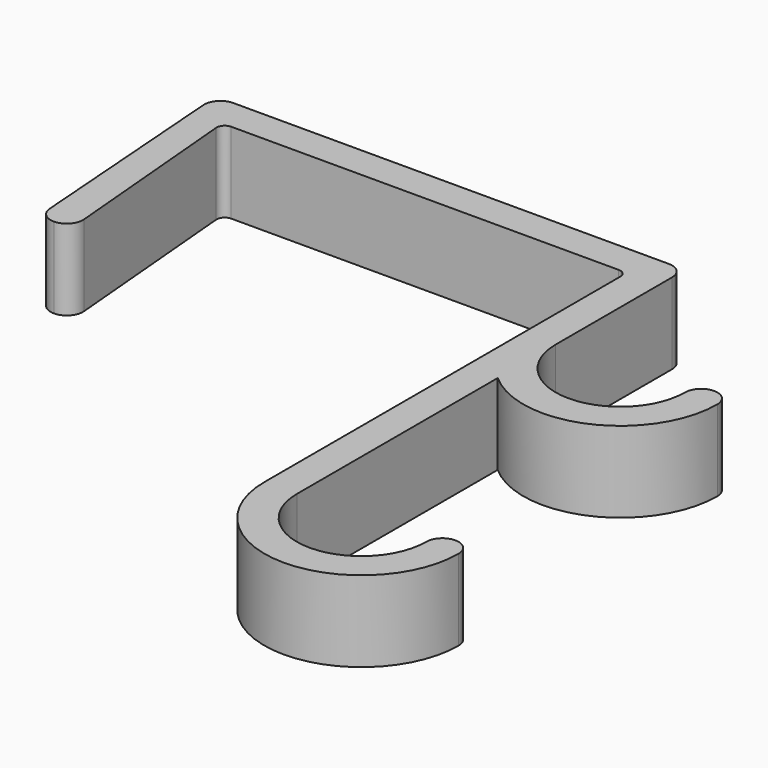
from build123d import *

# Parameters (mm, degrees)
F1_DEPTH = 15.875


with BuildPart() as f1:
    # F0 (on Top) → F1 (new body)
    with BuildSketch(Plane.XY):
        with BuildLine():
            Line((88.9, 0), (3.420675, 0))
            ThreePointArc((3.420675, 0), (1.093601, -1.015058), (0.254473, -3.411196))
            Line((0.254473, -3.411196), (3.354198, -44.962916))
            ThreePointArc((3.354198, -44.962916), (4.360458, -47.053794), (6.5204, -47.901719))
            ThreePointArc((6.5204, -47.901719), (8.861255, -46.871718), (9.683318, -44.45))
            Line((9.683318, -44.45), (6.500993, -8.07586))
            ThreePointArc((6.500993, -8.07586), (6.912024, -6.865001), (8.082452, -6.35))
            Line((8.082452, -6.35), (84.1375, -6.35))
            ThreePointArc((84.1375, -6.35), (85.260032, -6.814968), (85.725, -7.9375))
            Line((85.725, -7.9375), (85.725, -95.25))
            ThreePointArc((85.725, -95.25), (104.775, -114.3), (123.825, -95.25))
            ThreePointArc((123.825, -95.25), (120.65, -92.075), (117.475, -95.25))
            ThreePointArc((117.475, -95.25), (104.775, -107.95), (92.075, -95.25))
            Line((92.075, -95.25), (92.075, -45.949032))
            ThreePointArc((92.075, -45.949032), (112.55213, -49.140191), (123.825, -31.75))
            ThreePointArc((123.825, -31.75), (120.65, -28.575), (117.475, -31.75))
            ThreePointArc((117.475, -31.75), (104.775, -44.45), (92.075, -31.75))
            Line((92.075, -31.75), (92.075, -3.175))
            ThreePointArc((92.075, -3.175), (91.145064, -0.929936), (88.9, 0))
        make_face()
    extrude(amount=F1_DEPTH)


solid = f1.part
